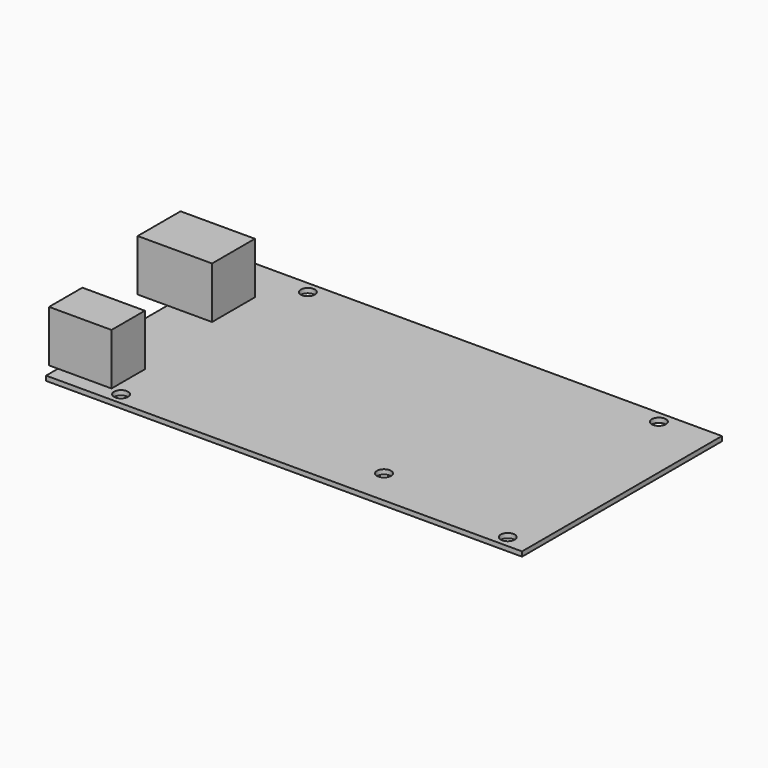
from build123d import *

# Parameters (mm, degrees)
F0_W     = 101.6
F0_H     = 53.34
F1_DEPTH = 1
F3_D     = 3
F4_W     = 9.525
F4_H     = 11.43
F4_W_2   = 6.35
F4_W_3   = 11.43
F4_H_2   = 8.89
F4_W_4   = 1.905
F5_DEPTH = 11


with BuildPart() as f1:
    # F0 (on Top) → F1 (new body)
    with BuildSketch(Plane.XY):
        Rectangle(F0_W, F0_H)
    extrude(amount=F1_DEPTH)

    # F3 (through all)
    with Locations(Plane.XY.offset(1)):
        with Locations((-35.56, 24.13), (39.37, 24.13), (45.72, -24.13), (15.24, -19.05), (-36.83, -24.13)):
            Hole(F3_D / 2)

    # F4 (on face) → F5 (join)
    with BuildSketch(Plane.XY.offset(1)):
        with Locations((-46.0375, 11.43)):
            Rectangle(F4_W, F4_H)
        with Locations((-53.975, 11.43)):
            Rectangle(F4_W_2, F4_H)
        with Locations((-45.085, -19.05)):
            Rectangle(F4_W_3, F4_H_2)
        with Locations((-51.7525, -19.05)):
            Rectangle(F4_W_4, F4_H_2)
    extrude(amount=F5_DEPTH)


solid = f1.part
